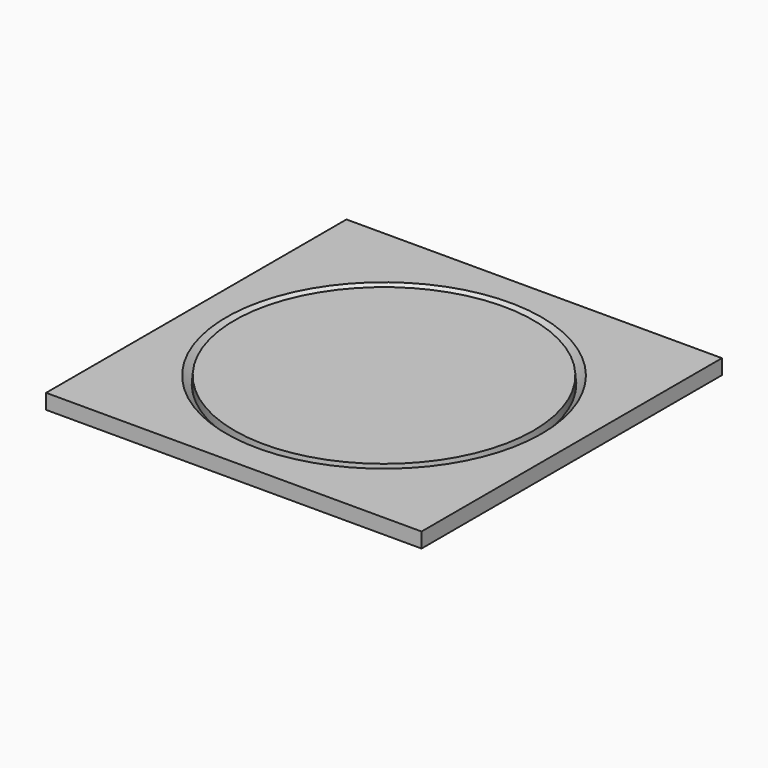
from build123d import *

# Parameters (mm, degrees)
F0_W     = 750
F0_H     = 750
F0_R     = 300
F0_R_2   = 298.5
F1_DEPTH = 30
F2_SIZE  = 15


with BuildPart() as f1:
    # F0 (on Top) → F1 (new body)
    with BuildSketch(Plane.XY):
        Rectangle(F0_W, F0_H)
        Circle(F0_R, mode=Mode.SUBTRACT)
        Circle(F0_R_2)
    extrude(amount=F1_DEPTH)

    # F2
    f2_edges = [f1.edges().sort_by_distance(p)[0] for p in [
        (-300, 0, 30),
    ]]
    chamfer(f2_edges, length=F2_SIZE)


solid = f1.part
